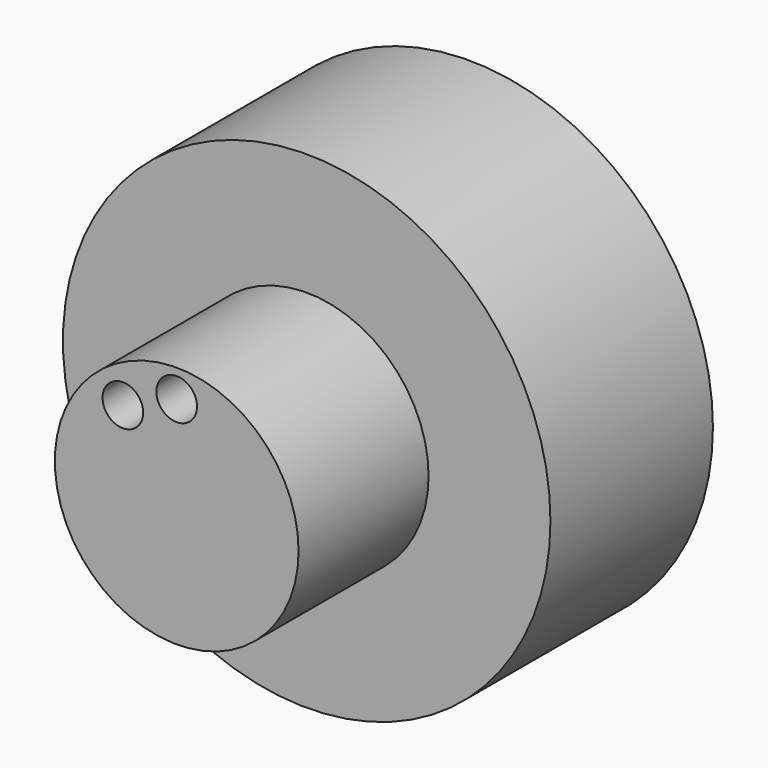
from build123d import *

# Parameters (mm, degrees)
F0_R     = 19.05
F1_DEPTH = 15.875
F2_R     = 9.525
F3_DEPTH = 12.7
F4_R     = 1.5875
F5_DEPTH = 50.8
F6_R     = 1.5875
F7_DEPTH = 50.8


with BuildPart() as f1:
    # F0 (on Front) → F1 (new body)
    with BuildSketch(Plane.XZ):
        Circle(F0_R)
    extrude(amount=F1_DEPTH)

    # F2 (on face) → F3 (join)
    with BuildSketch(Plane.XZ.offset(15.875)):
        Circle(F2_R)
    extrude(amount=F3_DEPTH)

    # F4 (on face) → F5 (cut)
    with BuildSketch(Plane.XZ.offset(28.575)):
        with Locations((0, 7.356282)):
            Circle(F4_R)
    extrude(amount=-F5_DEPTH, mode=Mode.SUBTRACT)

    # F6 (on face) → F7 (cut)
    with BuildSketch(Plane.XZ.offset(28.575)):
        with Locations((-4.208875, 5.569106)):
            Circle(F6_R)
    extrude(amount=-F7_DEPTH, mode=Mode.SUBTRACT)


solid = f1.part
